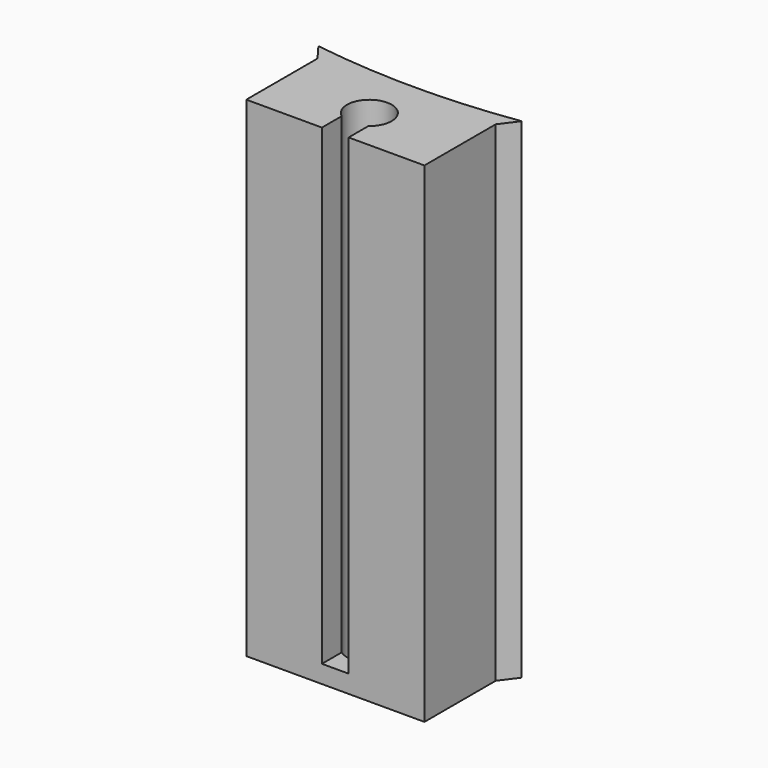
from build123d import *

# Parameters (mm, degrees)
F2_DEPTH = 55
F1_R     = 78.277093
F3_DEPTH = 60
F5_DEPTH = 60
F6_DEPTH = 53


with BuildPart() as f2:
    # F0 (on Top) → F2 (new body)
    with BuildSketch(Plane.XY):
        Polygon((-4.833426, 28.454347), (-24.831566, 28.454347), (-24.831566, 18.454347), (-4.831566, 18.454347), (-4.831566, 28.454347), align=None)
        Polygon((-24.833426, 28.454347), (-24.831566, 28.454347), (-4.833426, 28.454347), (-3.333426, 30.454347), (-26.333426, 30.454347), align=None)
    extrude(amount=F2_DEPTH)

    # F1 (on Top) → F3 (cut)
    with BuildSketch(Plane.XY):
        with Locations((-14.833426, 107.780978)):
            Circle(F1_R)
    extrude(amount=F3_DEPTH, mode=Mode.SUBTRACT)

    # F4 (on face) → F5 (cut)
    with BuildSketch(Plane.XY.offset(55)):
        with BuildLine():
            ThreePointArc((-13.342683, 21.219841), (-12.598608, 22.103899), (-12.331566, 23.228131))
            ThreePointArc((-12.331566, 23.228131), (-15.943368, 25.467304), (-16.342683, 21.236517))
            Line((-16.342683, 21.236517), (-13.342683, 21.236517))
            Line((-13.342683, 21.236517), (-13.342683, 21.219841))
        make_face()
        with BuildLine():
            Line((-13.342683, 21.236517), (-16.342683, 21.236517))
            ThreePointArc((-16.342683, 21.236517), (-14.845463, 20.72817), (-13.342683, 21.219841))
            Line((-13.342683, 21.219841), (-13.342683, 21.236517))
        make_face()
    extrude(amount=-F5_DEPTH, mode=Mode.SUBTRACT)

    # F4 (on face) → F6 (cut)
    with BuildSketch(Plane.XY.offset(55)):
        with BuildLine():
            ThreePointArc((-13.342683, 21.219841), (-14.845463, 20.72817), (-16.342683, 21.236517))
            Line((-16.342683, 21.236517), (-16.342683, 18.454347))
            Line((-16.342683, 18.454347), (-13.342683, 18.454347))
            Line((-13.342683, 18.454347), (-13.342683, 21.219841))
        make_face()
    extrude(amount=-F6_DEPTH, mode=Mode.SUBTRACT)


solid = f2.part
